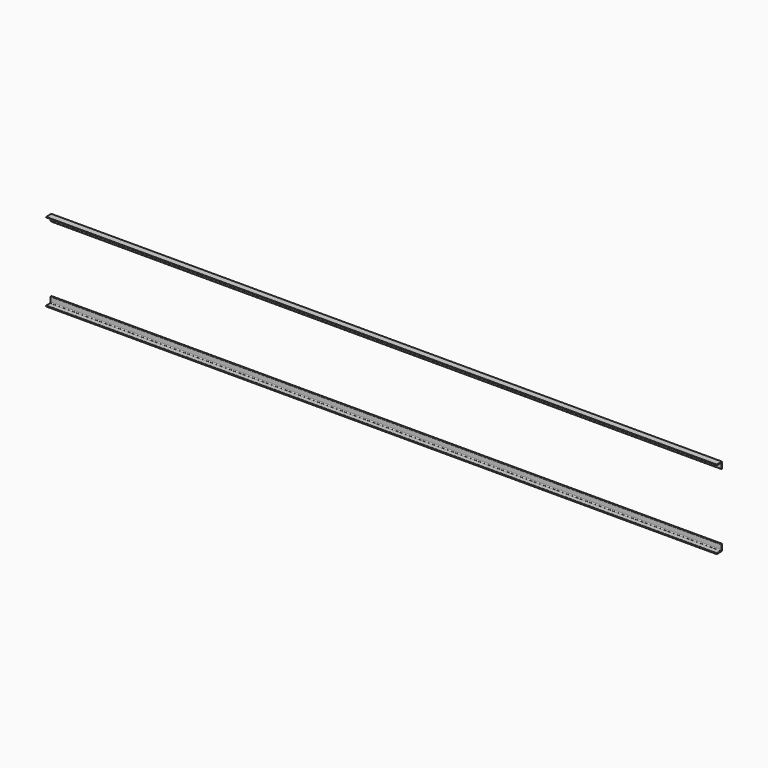
from build123d import *

# Parameters (mm, degrees)
EXTRUDE002_DEPTH = 5100
EXTRUDE003_DEPTH = 5100


with BuildPart() as extrude002:
    # AngleSteel → Extrude002 (new body)
    with BuildSketch(Plane(origin=(0, 43.196342, 28.796342), x_dir=(0, 1, 0), z_dir=(-1, 0, 0))):
        with BuildLine():
            Line((-14.396342, 14.396342), (-14.396342, -35.603658))
            Line((-14.396342, -35.603658), (-12.896342, -35.603658))
            ThreePointArc((-12.896342, -35.603658), (-9.714361, -34.285639), (-8.396342, -31.103658))
            Line((-8.396342, -31.103658), (-8.396342, 1.896342))
            ThreePointArc((-8.396342, 1.896342), (-6.492536, 6.492536), (-1.896342, 8.396342))
            Line((-1.896342, 8.396342), (31.103658, 8.396342))
            ThreePointArc((31.103658, 8.396342), (34.285639, 9.714361), (35.603658, 12.896342))
            Line((35.603658, 12.896342), (35.603658, 14.396342))
            Line((35.603658, 14.396342), (-14.396342, 14.396342))
        make_face()
    extrude(amount=-EXTRUDE002_DEPTH)


with BuildPart() as fusion:
    # Mirror → Extrude003 (new body)
    with BuildSketch(Plane(origin=(0, 43.196342, 599.996342), x_dir=(0, -1, 0), z_dir=(1, 0, 0))):
        with BuildLine():
            Line((14.396342, -14.396342), (14.396342, 35.603658))
            Line((14.396342, 35.603658), (12.896342, 35.603658))
            ThreePointArc((12.896342, 35.603658), (9.714361, 34.285639), (8.396342, 31.103658))
            Line((8.396342, 31.103658), (8.396342, -1.896342))
            ThreePointArc((8.396342, -1.896342), (6.492536, -6.492536), (1.896342, -8.396342))
            Line((1.896342, -8.396342), (-31.103658, -8.396342))
            ThreePointArc((-31.103658, -8.396342), (-34.285639, -9.714361), (-35.603658, -12.896342))
            Line((-35.603658, -12.896342), (-35.603658, -14.396342))
            Line((-35.603658, -14.396342), (14.396342, -14.396342))
        make_face()
    extrude(amount=EXTRUDE003_DEPTH)

    # Fusion: union Extrude002
    add(extrude002.part)


with BuildPart() as fusion_mirrored:
    # Mirror001: instance of Fusion
    add(fusion.part.mirror(Plane(origin=(0, 28.796342, 514.396342), x_dir=(-1, 0, 0), z_dir=(0, -1, 0))))


with BuildPart() as fusion_mirrored_1:
    # Mirror001 placement: moved
    add(fusion_mirrored.part.moved(Location((0, -6, 0))))


solid = fusion_mirrored_1.part
